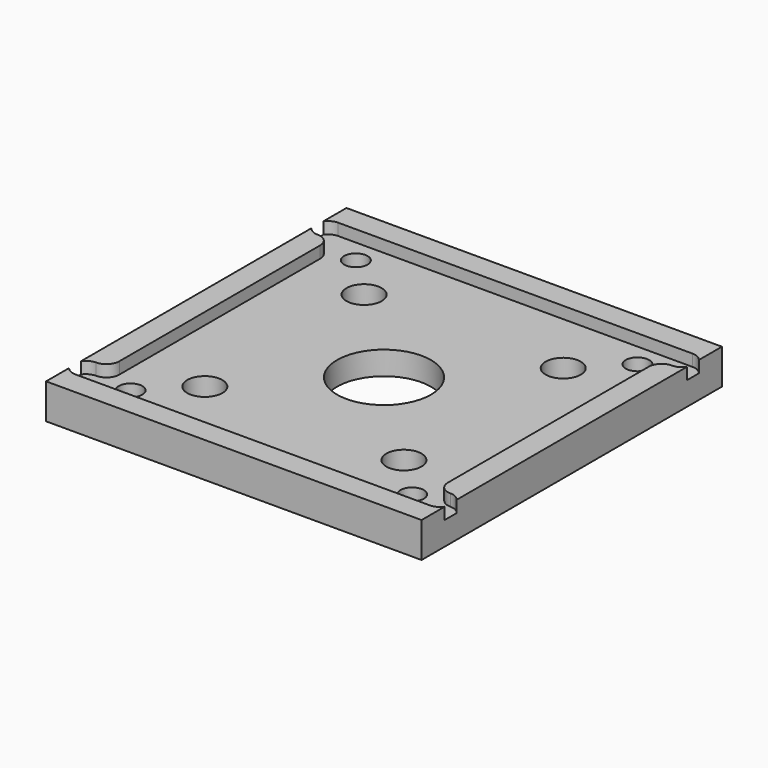
from build123d import *

# Parameters (mm, degrees)
F0_W     = 101.6
F0_H     = 101.6
F1_DEPTH = 9.525
F2_W     = 88.9
F2_H     = 88.9
F3_DEPTH = 3.175
F5_DEPTH = 3.175
F6_R     = 4.7625
F6_R_2   = 12.7
F7_DEPTH = 6.351
F8_R     = 3.175
F9_DEPTH = 9.526


with BuildPart() as f1:
    # F0 (on Top) → F1 (new body)
    with BuildSketch(Plane.XY):
        with Locations((50.8, 50.8)):
            Rectangle(F0_W, F0_H)
    extrude(amount=F1_DEPTH)

    # F2 (on face) → F3 (cut)
    with BuildSketch(Plane.XY.offset(9.525)):
        with Locations((50.8, 50.8)):
            Rectangle(F2_W, F2_H)
    extrude(amount=-F3_DEPTH, mode=Mode.SUBTRACT)

    # F4 (on face) → F5 (cut)
    with BuildSketch(Plane.XY.offset(9.525)):
        with BuildLine():
            Line((6.35, 95.25), (2.8575, 95.25))
            ThreePointArc((2.8575, 95.25), (1.2474604822, 94.8567465215), (0, 93.7655463142))
            Line((0, 93.7655463142), (0, 89.7494536858))
            ThreePointArc((0, 89.7494536858), (1.2474604822, 88.6582534785), (2.8575, 88.265))
            ThreePointArc((2.8575, 88.265), (5.3270704333, 87.2420704333), (6.35, 84.7725))
            Line((6.35, 84.7725), (6.35, 95.25))
        make_face()
        with BuildLine():
            ThreePointArc((2.8575, 13.335), (1.2474604822, 12.9417465215), (0, 11.8505463142))
            Line((0, 11.8505463142), (0, 7.8344536858))
            ThreePointArc((0, 7.8344536858), (1.2474604822, 6.7432534785), (2.8575, 6.35))
            Line((2.8575, 6.35), (6.35, 6.35))
            Line((6.35, 6.35), (6.35, 16.8275))
            ThreePointArc((6.35, 16.8275), (5.3270704333, 14.3579295667), (2.8575, 13.335))
        make_face()
        with BuildLine():
            ThreePointArc((98.7425, 13.335), (96.2729295667, 14.3579295667), (95.25, 16.8275))
            Line((95.25, 16.8275), (95.25, 6.35))
            Line((95.25, 6.35), (98.7425, 6.35))
            ThreePointArc((98.7425, 6.35), (100.3525395178, 6.7432534785), (101.6, 7.8344536858))
            Line((101.6, 7.8344536858), (101.6, 11.8505463142))
            ThreePointArc((101.6, 11.8505463142), (100.3525395178, 12.9417465215), (98.7425, 13.335))
        make_face()
        with BuildLine():
            Line((98.7425, 95.25), (95.25, 95.25))
            Line((95.25, 95.25), (95.25, 84.7725))
            ThreePointArc((95.25, 84.7725), (96.2729295667, 87.2420704333), (98.7425, 88.265))
            ThreePointArc((98.7425, 88.265), (100.3525395178, 88.6582534785), (101.6, 89.7494536858))
            Line((101.6, 89.7494536858), (101.6, 93.7655463142))
            ThreePointArc((101.6, 93.7655463142), (100.3525395178, 94.8567465215), (98.7425, 95.25))
        make_face()
    extrude(amount=-F5_DEPTH, mode=Mode.SUBTRACT)

    # F6 (on face) → F7 (cut, through all)
    with BuildSketch(Plane.XY.offset(6.35)):
        with Locations((23.8592316368, 77.7407683632)):
            Circle(F6_R)
        with Locations((77.7407683632, 77.7407683632)):
            Circle(F6_R)
        with Locations((77.7407683632, 23.8592316368)):
            Circle(F6_R)
        with Locations((23.8592316368, 23.8592316368)):
            Circle(F6_R)
        with Locations((50.8, 50.8)):
            Circle(F6_R_2)
    extrude(amount=-F7_DEPTH, mode=Mode.SUBTRACT)

    # F8 (on face) → F9 (cut, through all)
    with BuildSketch(Plane.XY.offset(9.525)):
        with Locations((12.7, 12.7)):
            Circle(F8_R)
        with Locations((88.9, 88.9)):
            Circle(F8_R)
        with Locations((12.7, 88.9)):
            Circle(F8_R)
        with Locations((88.9, 12.7)):
            Circle(F8_R)
    extrude(amount=-F9_DEPTH, mode=Mode.SUBTRACT)


solid = f1.part
